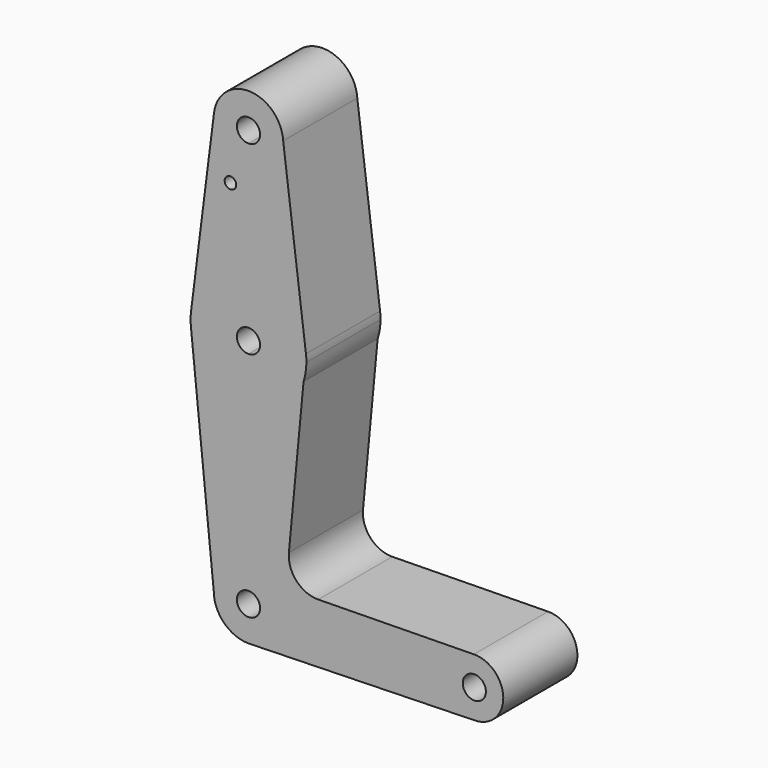
from build123d import *

# Parameters (mm, degrees)
F0_R     = 1.5875
F1_DEPTH = 25.4


with BuildPart() as f1:
    # F0 (on Front) → F1 (new body)
    with BuildSketch(Plane.XZ):
        with BuildLine():
            ThreePointArc((3.175, 0), (-2.2450640303, -2.2450640303), (0, 3.175))
            Line((0, 3.175), (0, 9.525))
            ThreePointArc((0, 9.525), (-6.7351920908, 6.7351920908), (-9.525, 0))
            ThreePointArc((-9.525, 0), (-6.7351920908, -6.7351920908), (0, -9.525))
            Line((0, -9.525), (0.4873420749, -9.5125245178))
            ThreePointArc((0.4873420749, -9.5125245178), (6.9053442443, -6.560628466), (9.525, 0))
            Line((9.525, 0), (3.175, 0))
        make_face()
        with BuildLine():
            ThreePointArc((-9.525, 0), (-6.7351920908, 6.7351920908), (0, 9.525))
            Line((0, 9.525), (0, 47.625))
            ThreePointArc((0, 47.625), (-10.644756084, 51.722700101), (-15.7942028036, 61.9003804205))
            Line((-15.7942028036, 61.9003804205), (-9.525, 0))
        make_face()
        with BuildLine():
            Line((0, 47.625), (0, 9.525))
            ThreePointArc((0, 9.525), (6.7351920908, 6.7351920908), (9.525, 0))
            Line((9.525, 0), (53.975, 0))
            ThreePointArc((53.975, 0), (56.2573769, 5.5698733355), (61.7919421036, 7.9365844066))
            Line((61.7919421036, 7.9365844066), (19.1103272901, 7.2882443355))
            ThreePointArc((19.1103272901, 7.2882443355), (13.1507825251, 9.8417729327), (11.0744888552, 15.9838968894))
            Line((11.0744888552, 15.9838968894), (15.0902933883, 58.5706318402))
            ThreePointArc((15.0902933883, 58.5706318402), (9.3209952651, 50.6495263796), (0, 47.625))
        make_face()
        with BuildLine():
            Line((53.975, 0), (9.525, 0))
            ThreePointArc((9.525, 0), (6.9053442443, -6.560628466), (0.4873420749, -9.5125245178))
            Line((0.4873420749, -9.5125245178), (62.1156257203, -7.9349005156))
            ThreePointArc((62.1156257203, -7.9349005156), (56.3721211391, -5.6840221963), (53.975, 0))
        make_face()
        with BuildLine():
            ThreePointArc((-15.7942028036, 61.9003804205), (-10.644756084, 51.722700101), (0, 47.625))
            Line((0, 47.625), (0, 60.325))
            ThreePointArc((0, 60.325), (-3.175, 63.5), (0, 66.675))
            Line((0, 66.675), (0, 79.375))
            ThreePointArc((0, 79.375), (-10.5341833315, 75.3763044141), (-15.7615329764, 65.3946512173))
            ThreePointArc((-15.7615329764, 65.3946512173), (-15.8743061976, 63.6484174728), (-15.7942028036, 61.9003804205))
        make_face()
        with BuildLine():
            Line((0, 60.325), (0, 47.625))
            ThreePointArc((0, 47.625), (9.3209952651, 50.6495263796), (15.0902933883, 58.5706318402))
            ThreePointArc((15.0902933883, 58.5706318402), (15.6775959978, 61.0042819209), (15.875, 63.5))
            ThreePointArc((15.875, 63.5), (15.8436247629, 64.4975867746), (15.7496230711, 65.4912303025))
            ThreePointArc((15.7496230711, 65.4912303025), (10.4977341352, 75.4085348816), (0, 79.375))
            Line((0, 79.375), (0, 66.675))
            ThreePointArc((0, 66.675), (2.2450640303, 65.7450640303), (3.175, 63.5))
            ThreePointArc((3.175, 63.5), (2.2450640303, 61.2549359697), (0, 60.325))
        make_face()
        with BuildLine():
            ThreePointArc((61.7919421036, 7.9365844066), (56.2573769, 5.5698733355), (53.975, 0))
            ThreePointArc((53.975, 0), (56.3721211391, -5.6840221963), (62.1156257203, -7.9349005156))
            ThreePointArc((62.1156257203, -7.9349005156), (67.5965221963, -5.5403788609), (69.85, 0))
            ThreePointArc((69.85, 0), (67.4823733355, 5.6551231), (61.7919421036, 7.9365844066))
        make_face()
        with BuildLine():
            ThreePointArc((65.0875, 0), (61.9125, -3.175), (58.7375, 0))
            ThreePointArc((58.7375, 0), (61.9125, 3.175), (65.0875, 0))
        make_face(mode=Mode.SUBTRACT)
        with BuildLine():
            ThreePointArc((0, -9.525), (0.2437508644, -9.5218806187), (0.4873420749, -9.5125245178))
            Line((0.4873420749, -9.5125245178), (0, -9.525))
        make_face()
        with BuildLine():
            Line((-9.4502990336, 115.4905768245), (-15.7615329764, 65.3946512173))
            ThreePointArc((-15.7615329764, 65.3946512173), (-10.5341833315, 75.3763044141), (0, 79.375))
            Line((0, 79.375), (0, 104.775))
            ThreePointArc((0, 104.775), (-7.1437339415, 107.9997864819), (-9.4502990336, 115.4905768245))
        make_face()
        with Locations((-4.9422510899, 100.0252)):
            Circle(F0_R, mode=Mode.SUBTRACT)
        with BuildLine():
            Line((0, 104.775), (0, 79.375))
            ThreePointArc((0, 79.375), (10.4977341352, 75.4085348816), (15.7496230711, 65.4912303025))
            Line((15.7496230711, 65.4912303025), (9.5090489926, 114.851010215))
            ThreePointArc((9.5090489926, 114.851010215), (9.521011413, 114.5756205234), (9.525, 114.3))
            ThreePointArc((9.525, 114.3), (6.7351920908, 107.5648079092), (0, 104.775))
        make_face()
        with BuildLine():
            ThreePointArc((9.5090489926, 114.851010215), (0.3211296489, 123.8195851143), (-9.4502990336, 115.4905768245))
            ThreePointArc((-9.4502990336, 115.4905768245), (-7.1437339415, 107.9997864819), (0, 104.775))
            ThreePointArc((0, 104.775), (6.7351920908, 107.5648079092), (9.525, 114.3))
            ThreePointArc((9.525, 114.3), (9.521011413, 114.5756205234), (9.5090489926, 114.851010215))
        make_face()
        with BuildLine():
            ThreePointArc((3.175, 114.3), (2.2450640303, 112.0549359697), (0, 111.125))
            ThreePointArc((0, 111.125), (-2.2450640303, 116.5450640303), (3.175, 114.3))
        make_face(mode=Mode.SUBTRACT)
        with BuildLine():
            Line((0, 9.525), (0, 3.175))
            ThreePointArc((0, 3.175), (2.2450640303, 2.2450640303), (3.175, 0))
            Line((3.175, 0), (9.525, 0))
            ThreePointArc((9.525, 0), (6.7351920908, 6.7351920908), (0, 9.525))
        make_face()
    extrude(amount=F1_DEPTH)


solid = f1.part
